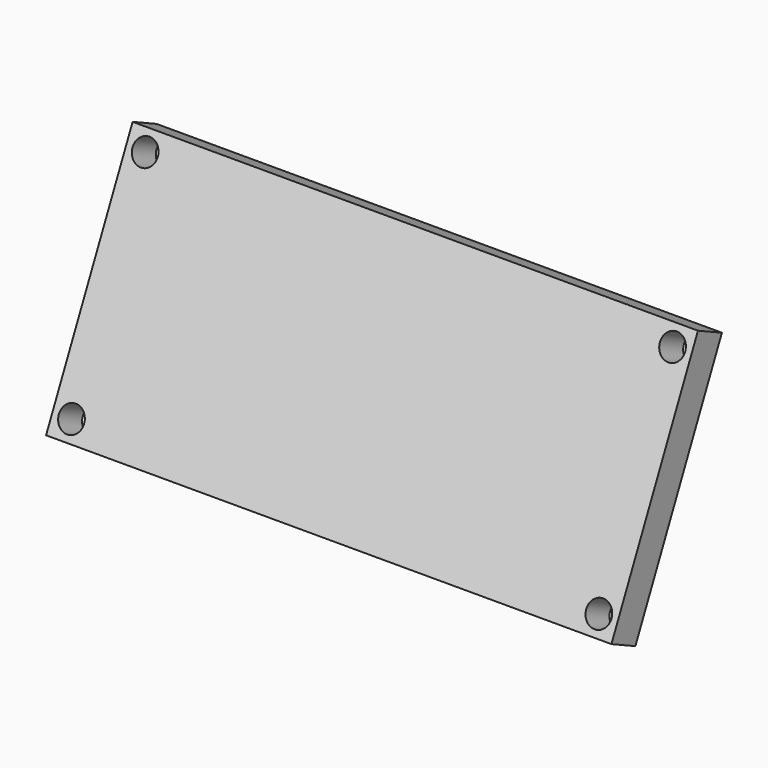
from build123d import *

# Parameters (mm, degrees)
CYLINDER002_R           = 1.8
CYLINDER002_DEPTH       = 10
ARRAY003_X_COUNT        = 2
ARRAY003_X_PITCH        = 75
ARRAY003_Y_COUNT        = 2
ARRAY003_Y_PITCH        = 31
BOX008_W                = 80.4
BOX008_H                = 36.4
BOX008_DEPTH            = 4.7
BOX_W                   = 71.2
BOX_H                   = 25
BOX_DEPTH               = 3.8
BODY001_PLACEMENT_ANGLE = 115


with BuildPart() as hole_clone:
    # Cylinder002 → Cylinder002 (new body)
    with BuildSketch(Plane(origin=(3.7, 3.7, 0), x_dir=(1, 0, 0), z_dir=(0, 0, 1))):
        Circle(CYLINDER002_R)
    extrude(amount=CYLINDER002_DEPTH)

    # Array003 X: hole clone ×2


with BuildPart() as hole_clone_1:
    add(hole_clone.part)
    with Locations(*[(i * ARRAY003_X_PITCH, 0, 0) for i in range(1, ARRAY003_X_COUNT)]):
        add(hole_clone.part)

    # Array003 Y: hole clone ×2


with BuildPart() as hole_clone_2:
    add(hole_clone_1.part)
    with Locations(*[(0, i * ARRAY003_Y_PITCH, 0) for i in range(1, ARRAY003_Y_COUNT)]):
        add(hole_clone_1.part)


with BuildPart() as hole_clone_3:
    # Body placement: moved
    add(hole_clone_2.part.moved(Location((-1, -1, 0))))


with BuildPart() as under_display:
    # Box008 → Box008 (new body)
    with BuildSketch(Plane.XY):
        with Locations((40.2, 18.2)):
            Rectangle(BOX008_W, BOX008_H)
    extrude(amount=BOX008_DEPTH)


with BuildPart() as f_16x2_lcd_clone:
    # Box → Box (new body)
    with BuildSketch(Plane(origin=(4.4, 5.2, 4.7), x_dir=(1, 0, 0), z_dir=(0, 0, 1))):
        with Locations((35.6, 12.5)):
            Rectangle(BOX_W, BOX_H)
    extrude(amount=BOX_DEPTH)

    # Fusion004: union under display
    add(under_display.part)

    # Cut: cut hole clone
    add(hole_clone_3.part, mode=Mode.SUBTRACT)


with BuildPart() as f_16x2_lcd_clone_1:
    # Body001 placement: moved
    add(f_16x2_lcd_clone.part.moved(Location((1, 21.460623, -9.855736))).rotate(Axis((1, 21.460623, -9.855736), (-1, 0, 0)), BODY001_PLACEMENT_ANGLE))


solid = f_16x2_lcd_clone_1.part
